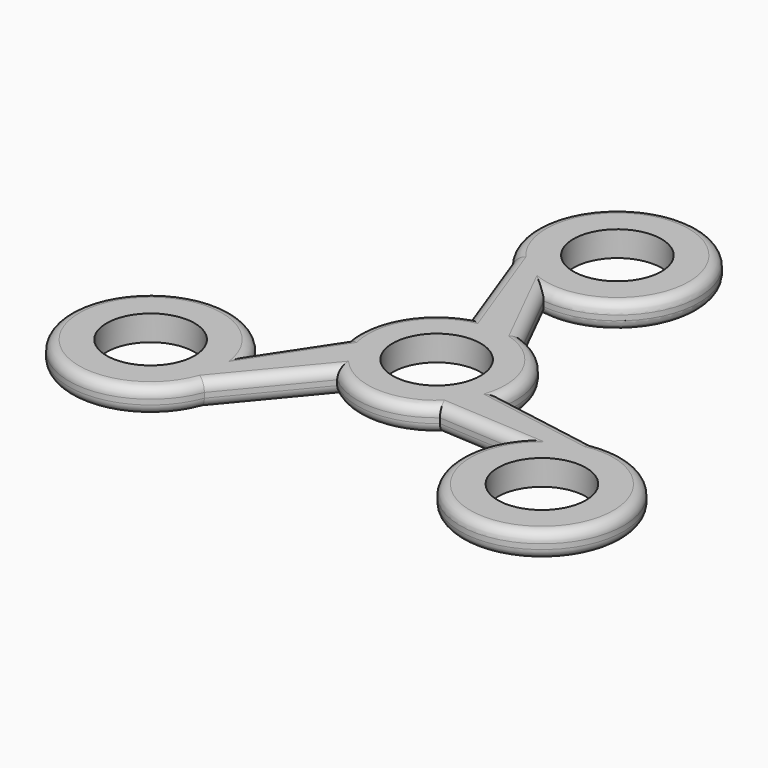
from build123d import *

# Parameters (mm, degrees)
F0_R     = 11.0109
F0_R_2   = 10.9982
F1_DEPTH = 6.35
F2_R     = 2.54


with BuildPart() as f1:
    # F0 (on Top) → F1 (new body)
    with BuildSketch(Plane.XY):
        with BuildLine():
            Line((6.589805, 18.65062), (-2.170005, 36.212375))
            ThreePointArc((-2.170005, 36.212375), (9.675051, 74.528367), (-15.750185, 43.512597))
            Line((-15.750185, 43.512597), (-6.589805, 18.65062))
            ThreePointArc((-6.589805, 18.65062), (-17.13048, 9.890287), (-19.446813, -3.618371))
            Line((-19.446813, -3.618371), (-30.275834, -19.985467))
            ThreePointArc((-30.275834, -19.985467), (-69.380985, -28.885343), (-29.807922, -35.396359))
            Line((-29.807922, -35.396359), (-12.857008, -15.032248))
            ThreePointArc((-12.857008, -15.032248), (0, -19.780575), (12.857008, -15.032248))
            Line((12.857008, -15.032248), (32.445839, -16.226908))
            ThreePointArc((32.445839, -16.226908), (59.705934, -45.643024), (45.558107, -8.116238))
            Line((45.558107, -8.116238), (19.446813, -3.618371))
            ThreePointArc((19.446813, -3.618371), (17.13048, 9.890287), (6.589805, 18.65062))
        make_face()
        with Locations((-48.956789, -28.265215)):
            Circle(F0_R, mode=Mode.SUBTRACT)
        with Locations((48.956789, -28.265215)):
            Circle(F0_R, mode=Mode.SUBTRACT)
        Circle(F0_R_2, mode=Mode.SUBTRACT)
        with Locations((0, 56.530431)):
            Circle(F0_R, mode=Mode.SUBTRACT)
    extrude(amount=F1_DEPTH)

    # F2
    f2_edges = [f1.edges().sort_by_distance(p)[0] for p in [
        (0, -19.780575, 6.35),
        (-21.332465, -25.214304, 6.35),
        (-69.380985, -28.885343, 6.35),
        (-17.13048, 9.890287, 6.35),
        (-69.380985, -28.885343, 0),
        (-24.861323, -11.801919, 6.35),
        (-11.169995, 31.081608, 6.35),
        (2.2099, 27.431497, 6.35),
        (9.675051, 74.528367, 6.35),
        (32.50246, -5.867305, 6.35),
        (22.651423, -15.629578, 6.35),
        (59.705934, -45.643024, 6.35),
        (17.13048, 9.890287, 6.35),
        (9.675051, 74.528367, 0),
        (-11.169995, 31.081608, 0),
        (2.2099, 27.431497, 0),
        (17.13048, 9.890287, 0),
        (-17.13048, 9.890287, 0),
        (-24.861323, -11.801919, 0),
        (32.50246, -5.867305, 0),
        (59.705934, -45.643024, 0),
        (0, -19.780575, 0),
        (22.651423, -15.629578, 0),
        (-21.332465, -25.214304, 0),
    ]]
    fillet(f2_edges, radius=F2_R)


solid = f1.part
